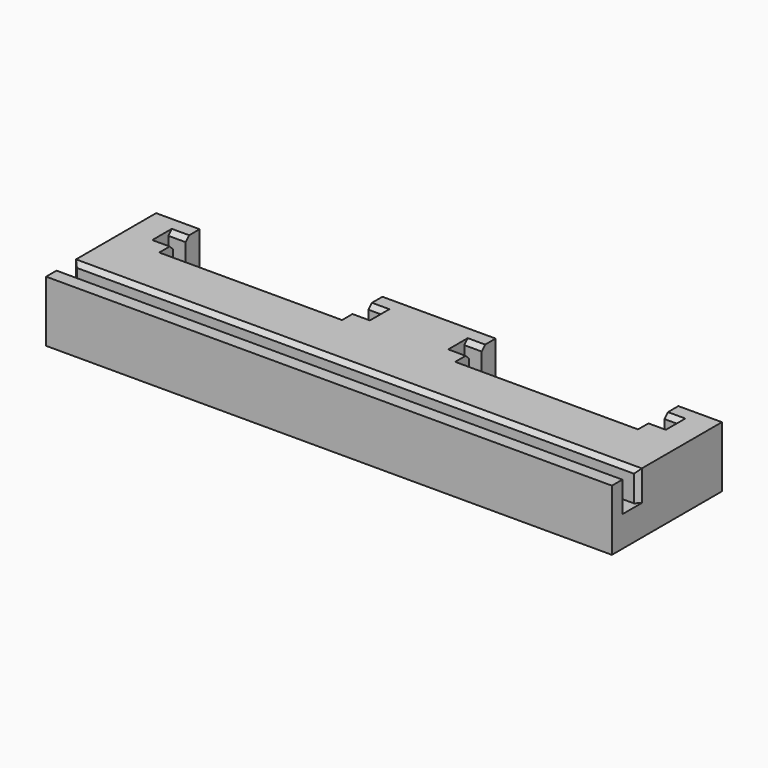
from build123d import *

# Parameters (mm, degrees)
PAD_DEPTH       = 7
SKETCH001_W     = 65
SKETCH001_H     = 1.8
POCKET_DEPTH    = 3.5
CHAMFER_SIZE    = 0.5
CHAMFER001_SIZE = 0.5


with BuildPart() as part:
    # Sketch → Pad (new body)
    with BuildSketch(Plane.XY):
        Polygon((-32.5, 0), (-32.5, 15.8), (-27.5, 15.8), (-27.5, 13.8), (-29.5, 13.8), (-29.5, 12), (-27.5, 12), (-27.5, 10), (-6.5, 10), (-6.5, 12), (-4.5, 12), (-4.5, 13.8), (-6.5, 13.8), (-6.5, 15.8), (6.5, 15.8), (6.5, 13.8), (4.5, 13.8), (4.5, 12), (6.5, 12), (6.5, 10), (27.5, 10), (27.5, 12), (29.5, 12), (29.5, 13.8), (27.5, 13.8), (27.5, 15.8), (32.5, 15.8), (32.5, 0), align=None)
    extrude(amount=PAD_DEPTH)

    # Sketch001 → Pocket (cut)
    with BuildSketch(Plane.XY.offset(7)):
        with Locations((0, 2.9)):
            Rectangle(SKETCH001_W, SKETCH001_H)
    extrude(amount=-POCKET_DEPTH, mode=Mode.SUBTRACT)

    # Chamfer
    chamfer_edges = [part.edges().sort_by_distance(p)[0] for p in [
        (0, 2, 7),
        (0, 3.8, 7),
        (-32.5, 2, 5.25),
        (-32.5, 3.8, 5.25),
        (32.5, 2, 5.25),
        (32.5, 3.8, 5.25),
    ]]
    chamfer(chamfer_edges, length=CHAMFER_SIZE)

    # Chamfer001
    chamfer001_edges = [part.edges().sort_by_distance(p)[0] for p in [
        (-28.5, 12, 7),
        (-28.5, 13.8, 7),
        (-5.5, 12, 7),
        (-5.5, 13.8, 7),
        (5.5, 12, 7),
        (5.5, 13.8, 7),
        (28.5, 12, 7),
        (28.5, 13.8, 7),
    ]]
    chamfer(chamfer001_edges, length=CHAMFER001_SIZE)


solid = part.part
